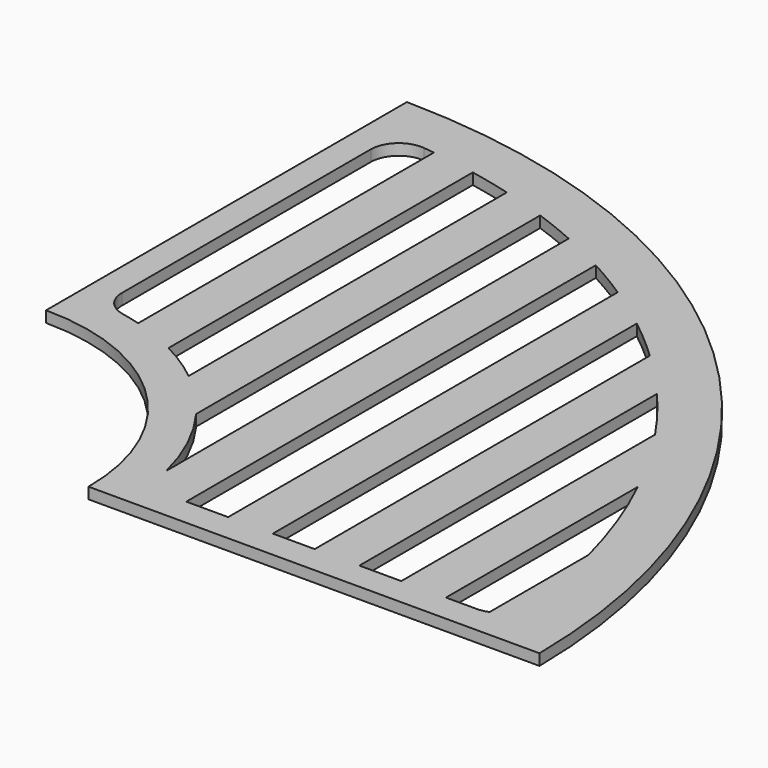
from build123d import *

# Parameters (mm, degrees)
F1_DEPTH = 2.54


with BuildPart() as f1:
    # F0 (on Top) → F1 (new body)
    with BuildSketch(Plane.XY):
        with BuildLine():
            ThreePointArc((0, 48.26), (34.124973, 34.124973), (48.26, 0))
            Line((48.26, 0), (150.8125, 0))
            ThreePointArc((150.8125, 0), (106.183757, 106.183757), (0, 150.8125))
            Line((0, 150.8125), (0, 48.26))
        make_face()
        with BuildLine():
            Line((55.245, 127.75815), (55.245, 13.362749))
            ThreePointArc((55.245, 13.362749), (51.503135, 24.041635), (45.72, 33.767657))
            Line((45.72, 33.767657), (45.72, 131.559986))
            ThreePointArc((45.72, 131.559986), (50.517399, 129.746504), (55.245, 127.75815))
        make_face(mode=Mode.SUBTRACT)
        with BuildLine():
            Line((74.93, 6.35), (65.405, 6.35))
            Line((65.405, 6.35), (65.405, 122.762105))
            ThreePointArc((65.405, 122.762105), (70.223809, 120.019687), (74.93, 117.088215))
            Line((74.93, 117.088215), (74.93, 6.35))
        make_face(mode=Mode.SUBTRACT)
        with BuildLine():
            ThreePointArc((124.46, 60.893818), (129.865191, 48.162763), (133.985, 34.959619))
            Line((133.985, 34.959619), (133.985, 6.867618))
            ThreePointArc((133.985, 6.867618), (132.755827, 6.480751), (131.47386, 6.35))
            Line((131.47386, 6.35), (124.46, 6.35))
            Line((124.46, 6.35), (124.46, 60.893818))
        make_face(mode=Mode.SUBTRACT)
        with BuildLine():
            Line((104.775, 6.35), (104.775, 90.942553))
            ThreePointArc((104.775, 90.942553), (109.712471, 84.84681), (114.3, 78.483534))
            Line((114.3, 78.483534), (114.3, 6.35))
            Line((114.3, 6.35), (104.775, 6.35))
        make_face(mode=Mode.SUBTRACT)
        with BuildLine():
            Line((94.615, 6.35), (85.09, 6.35))
            Line((85.09, 6.35), (85.09, 109.809109))
            ThreePointArc((85.09, 109.809109), (89.944941, 105.810796), (94.615, 101.598016))
            Line((94.615, 101.598016), (94.615, 6.35))
        make_face(mode=Mode.SUBTRACT)
        with BuildLine():
            ThreePointArc((35.56, 44.340269), (30.952351, 47.671009), (26.035, 50.524765))
            Line((26.035, 50.524765), (26.035, 137.005573))
            ThreePointArc((26.035, 137.005573), (30.81719, 135.965077), (35.56, 134.757713))
            Line((35.56, 134.757713), (35.56, 44.340269))
        make_face(mode=Mode.SUBTRACT)
        with BuildLine():
            ThreePointArc((11.423732, 55.678285), (7.779289, 57.885092), (6.35, 61.898706))
            Line((6.35, 61.898706), (6.35, 132.616219))
            ThreePointArc((6.35, 132.616219), (8.451575, 137.335688), (13.365238, 138.931277))
            ThreePointArc((13.365238, 138.931277), (14.620769, 138.793276), (15.875, 138.643929))
            Line((15.875, 138.643929), (15.875, 54.576162))
            ThreePointArc((15.875, 54.576162), (13.660485, 55.172133), (11.423732, 55.678285))
        make_face(mode=Mode.SUBTRACT)
    extrude(amount=F1_DEPTH)


solid = f1.part
